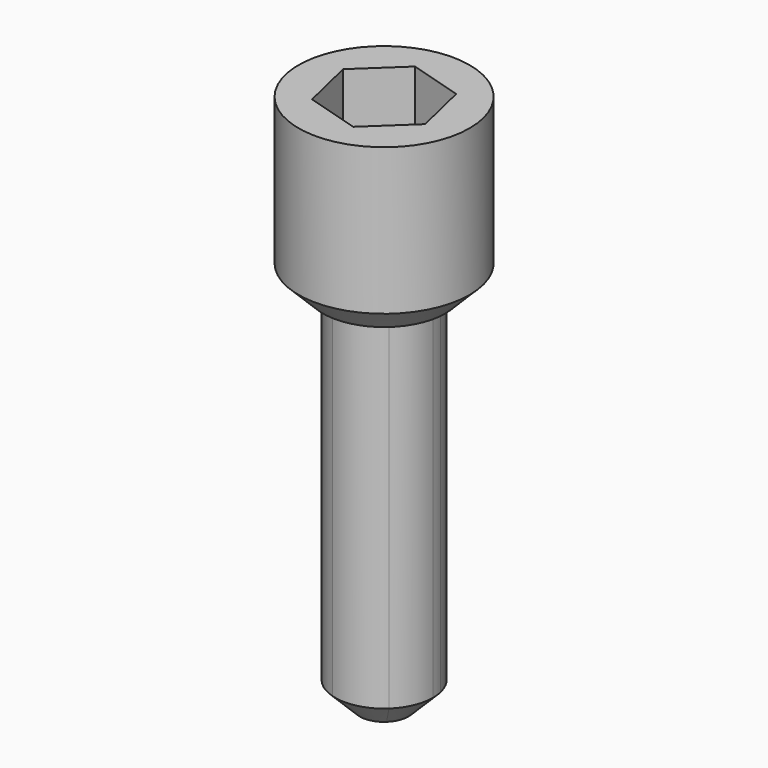
from build123d import *

# Parameters (mm, degrees)
F0_R      = 3.5
F1_DEPTH  = 7
F3_DEPTH  = 15
F4_SIZE   = 1
F4_2_SIZE = 1


with BuildPart() as f1:
    # F0 (on Top) → F1 (new body)
    with BuildSketch(Plane.XY):
        Circle(F0_R)
        Polygon((1.6820281696, 1.5824394364), (2.2114468367, -0.6654594065), (0.5294186671, -2.247898843), (-1.6820281696, -1.5824394364), (-2.2114468367, 0.6654594065), (-0.5294186671, 2.247898843), align=None, mode=Mode.SUBTRACT)
    extrude(amount=F1_DEPTH)

    # F4#2
    f4_2_edges = [f1.edges().sort_by_distance(p)[0] for p in [
        (-3.5, 0, 0),
    ]]
    chamfer(f4_2_edges, length=F4_2_SIZE)


with BuildPart() as f3:
    # F2 (on Top) → F3 (new body)
    with BuildSketch(Plane.XY):
        with BuildLine():
            ThreePointArc((2, 0), (1.9867946973, 0.2294489718), (1.9473531693, 0.4558680005))
            ThreePointArc((1.9473531693, 0.4558680005), (1.4585233241, 1.3684698437), (0.5788833421, 1.914391307))
            ThreePointArc((0.5788833421, 1.914391307), (-0.4558679991, 1.9473531697), (-1.3684698721, 1.4585232974))
            ThreePointArc((-1.3684698721, 1.4585232974), (-1.9143913204, 0.5788832978), (-1.9473531666, -0.4558680121))
            ThreePointArc((-1.9473531666, -0.4558680121), (-1.4585233203, -1.3684698478), (-0.5788833428, -1.9143913068))
            ThreePointArc((-0.5788833428, -1.9143913068), (0.4558679987, -1.9473531697), (1.3684698721, -1.4585232974))
            ThreePointArc((1.3684698721, -1.4585232974), (1.8353391709, -0.7946886987), (2, 0))
        make_face()
    extrude(amount=-F3_DEPTH)

    # F4
    f4_edges = [f3.edges().sort_by_distance(p)[0] for p in [
        (1.947353, 0.455868, -15),
    ]]
    chamfer(f4_edges, length=F4_SIZE)


solid = Compound([f1.part, f3.part])
